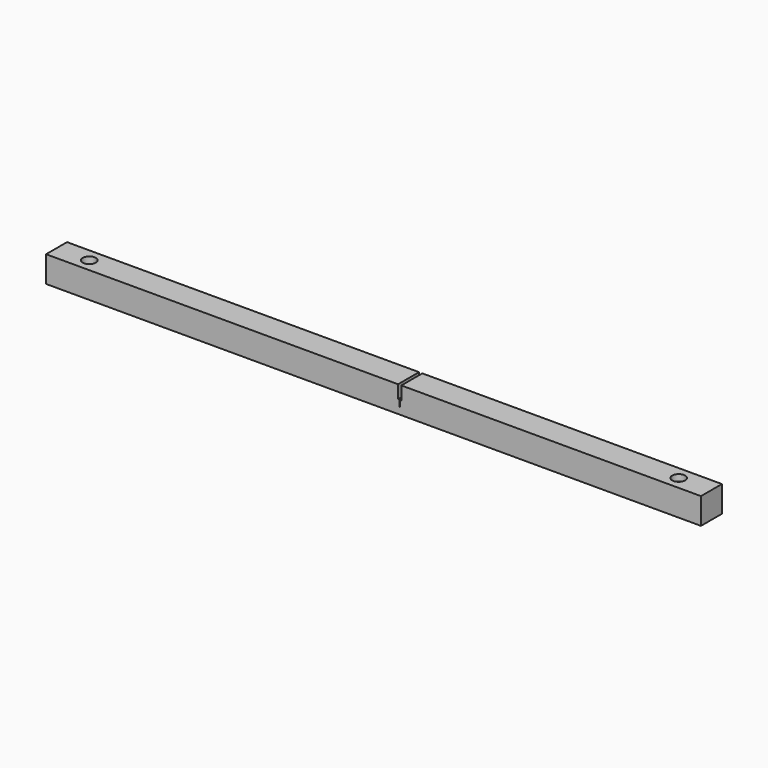
from build123d import *

# Parameters (mm, degrees)
F0_W           = 635
F0_H           = 25.4
F1_DEPTH       = 25.4
F3_D           = 6.35
F3_CBORE_D     = 12.7
F3_CBORE_DEPTH = 6.35
F4_W           = 0.5842
F4_H           = 25.4
F5_DEPTH       = 19.05
F6_W           = 3.175
F6_H           = 25.4
F7_DEPTH       = 12.7


with BuildPart() as f1:
    # F0 (on Top) → F1 (new body)
    with BuildSketch(Plane.XY):
        Rectangle(F0_W, F0_H)
    extrude(amount=F1_DEPTH)

    # F3 (through all)
    with Locations(Plane.XY.offset(25.4)):
        with Locations((-285.75, 0), (285.75, 0)):
            CounterBoreHole(F3_D / 2, F3_CBORE_D / 2, F3_CBORE_DEPTH)

    # F4 (on face) → F5 (cut)
    with BuildSketch(Plane.XY.offset(25.4)):
        with Locations((25.4, 0)):
            Rectangle(F4_W, F4_H)
    extrude(amount=-F5_DEPTH, mode=Mode.SUBTRACT)

    # F6 (on face) → F7 (cut)
    with BuildSketch(Plane.XY.offset(25.4)):
        with Locations((25.4, 0)):
            Rectangle(F6_W, F6_H)
    extrude(amount=-F7_DEPTH, mode=Mode.SUBTRACT)


solid = f1.part
